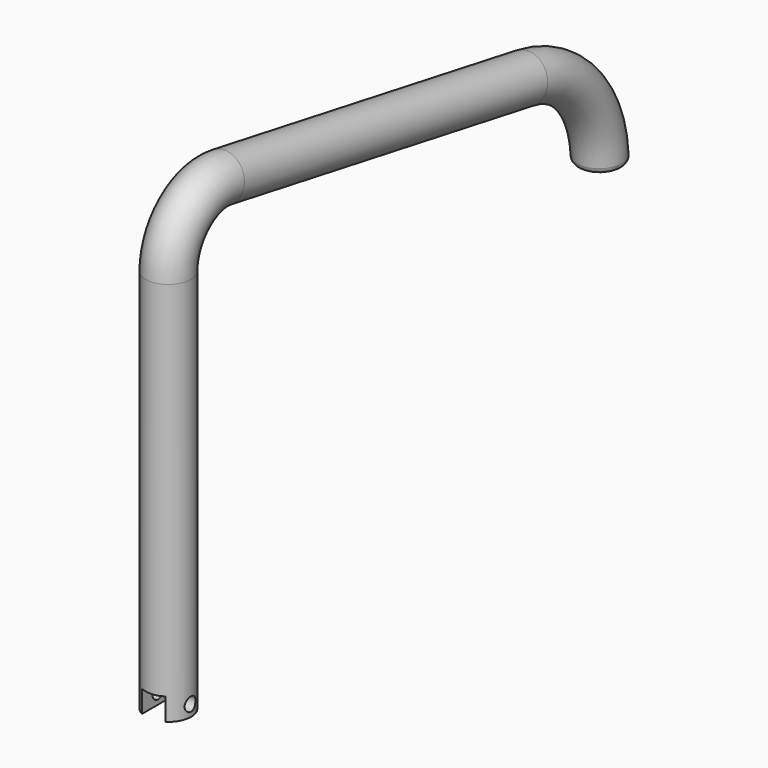
from build123d import *

# Parameters (mm, degrees)
F0_R      = 2
F3_R      = 1
F4_DEPTH  = 2
F5_R      = 0.5
F6_R      = 2
F7_DEPTH  = 30
F8_W      = 2
F8_H      = 2
F9_DEPTH  = 50
F10_W     = 2
F10_H     = 1.97649955
F11_DEPTH = 25
F12_R     = 0.6
F13_DEPTH = 4.5506
F15_DEPTH = 10


with BuildPart() as f2:
    # F2: sweep along a path in F1
    with BuildLine(Plane.YZ) as f2_path:
        ThreePointArc((47.6558283438, -6.7940046368), (45.316272775, -0.3661285399), (39.3923101205, 3.0540728933))
        Line((39.3923101205, 3.0540728933), (5.8682408883, 8.9652708021))
        ThreePointArc((5.8682408883, 8.9652708021), (1.7860619516, 7.8714542526), (0, 4.041232037))
        Line((0, 4.041232037), (0, 0))
    # F0 (on Top) → F2 (sweep)
    with BuildSketch(Plane.XY):
        Circle(F0_R)
    sweep(path=f2_path.line)

    # F3 (on face) → F4 (cut)
    with BuildSketch(Plane(origin=(0, 0, -6.7940046368), x_dir=(1, 0, 0), z_dir=(0, 0, -1))):
        with Locations((0, -47.6558283438)):
            Circle(F3_R)
    extrude(amount=-F4_DEPTH, mode=Mode.SUBTRACT)

    # F5
    f5_edges = [f2.edges().sort_by_distance(p)[0] for p in [
        (-2, 47.655828, -6.794005),
    ]]
    fillet(f5_edges, radius=F5_R)

    # F6 (on face) → F7 (join)
    with BuildSketch(Plane(origin=(0, 0, 0), x_dir=(1, 0, 0), z_dir=(0, 0, -1))):
        Circle(F6_R)
    extrude(amount=F7_DEPTH)

    # F8 (on Front) → F9 (cut)
    with BuildSketch(Plane.XZ):
        with Locations((0.0787500758, -29.02350045)):
            Rectangle(F8_W, F8_H)
    extrude(amount=F9_DEPTH, mode=Mode.SUBTRACT)

    # F10 (on face) → F11 (cut)
    with BuildSketch(Plane.XZ):
        with Locations((0.0787500758, -29.011750225)):
            Rectangle(F10_W, F10_H)
    extrude(amount=-F11_DEPTH, mode=Mode.SUBTRACT)

    # F12 (on Right) → F13 (cut)
    with BuildSketch(Plane.YZ):
        with Locations((0, -29)):
            Circle(F12_R)
    extrude(amount=F13_DEPTH, mode=Mode.SUBTRACT)

    # F14 (on face) → F15 (cut)
    with BuildSketch(Plane.YZ.offset(-0.9212499242)):
        with BuildLine():
            ThreePointArc((0.6, -29), (0.4242640687, -28.5757359313), (0, -28.4))
            Line((0, -28.4), (0, -29.6))
            ThreePointArc((0, -29.6), (0.4242640687, -29.4242640687), (0.6, -29))
        make_face()
        with BuildLine():
            Line((0, -29.6), (0, -28.4))
            ThreePointArc((0, -28.4), (-0.6, -29), (0, -29.6))
        make_face()
    extrude(amount=-F15_DEPTH, mode=Mode.SUBTRACT)


solid = f2.part
